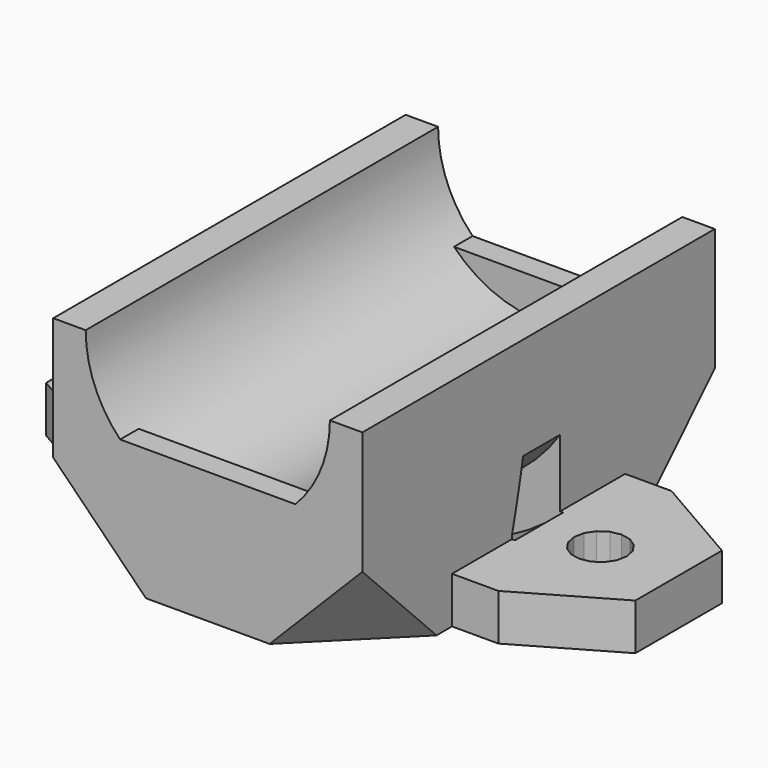
from build123d import *

# Parameters (mm, degrees)
CUBE006_W                    = 20
CUBE006_H                    = 10
CUBE006_DEPTH                = 20
CUBE006_ROLL_ANGLE           = 35
CUBE006_PLACEMENT_ANGLE      = -45
CUBE008_W                    = 20
CUBE008_H                    = 10
CUBE008_DEPTH                = 20
CUBE008_ROLL_ANGLE           = 35
CUBE008_PLACEMENT_ANGLE      = -45
CUBE007_W                    = 20
CUBE007_H                    = 10
CUBE007_DEPTH                = 20
CUBE007_ROLL_ANGLE           = 35
CUBE007_PLACEMENT_ANGLE      = 45
CUBE005_W                    = 20
CUBE005_H                    = 10
CUBE005_DEPTH                = 20
CUBE005_ROLL_ANGLE           = 35
CUBE005_PLACEMENT_ANGLE      = 45
CUBE003_W                    = 4.5
CUBE003_H                    = 20
CUBE003_DEPTH                = 1.5
CUBE004_W                    = 4.5
CUBE004_H                    = 20
CUBE004_DEPTH                = 1.5
CYLINDER005_R                = 12
CYLINDER005_DEPTH            = 5
CYLINDER004_R                = 15
CYLINDER004_DEPTH            = 3.9
CUBE002_W                    = 4
CUBE002_H                    = 20
CUBE002_DEPTH                = 28.5
CYLINDER003_R                = 7.9
CYLINDER003_DEPTH            = 32.5
CUBE001_W                    = 10
CUBE001_H                    = 20
CUBE001_DEPTH                = 28.5
MATRIX_UNION_PITCH_ANGLE     = -90
MATRIX_UNION_PLACEMENT_ANGLE = 90
PRISM003_DEPTH               = 10
CYLINDER001_R                = 12
CYLINDER001_DEPTH            = 5
CYLINDER_R                   = 15
CYLINDER_DEPTH               = 3.9
DIFFERENCE_PITCH_ANGLE       = -90
DIFFERENCE_PLACEMENT_ANGLE   = 90
PRISM002_DEPTH               = 10
PRISM_DEPTH                  = 3
PRISM_PLACEMENT_ANGLE        = 30
PRISM001_DEPTH               = 3
PRISM001_PLACEMENT_ANGLE     = 30
CUBE_W                       = 26
CUBE_H                       = 14
CUBE_DEPTH                   = 3


with BuildPart() as cube006:
    # cube006 → cube006 (new body)
    with BuildSketch(Plane.XY):
        with Locations((10, 5)):
            Rectangle(CUBE006_W, CUBE006_H)
    extrude(amount=CUBE006_DEPTH)


with BuildPart() as cube006_1:
    # cube006 roll: moved
    add(cube006.part.rotate(Axis((0, 0, 0), (1, 0, 0)), CUBE006_ROLL_ANGLE))


with BuildPart() as cube006_2:
    # cube006 placement: moved
    add(cube006_1.part.moved(Location((-15.80755, -5.915414, -13.927285))).rotate(Axis((-15.80755, -5.915414, -13.927285), (0, 0, 1)), CUBE006_PLACEMENT_ANGLE))


with BuildPart() as cube008:
    # cube008 → cube008 (new body)
    with BuildSketch(Plane.XY):
        with Locations((10, 5)):
            Rectangle(CUBE008_W, CUBE008_H)
    extrude(amount=CUBE008_DEPTH)


with BuildPart() as cube008_1:
    # cube008 roll: moved
    add(cube008.part.rotate(Axis((0, 0, 0), (1, 0, 0)), CUBE008_ROLL_ANGLE))


with BuildPart() as cube008_2:
    # cube008 placement: moved
    add(cube008_1.part.moved(Location((-15.80755, -5.915414, -13.927285))).rotate(Axis((-15.80755, -5.915414, -13.927285), (0, 0, 1)), CUBE008_PLACEMENT_ANGLE))


with BuildPart() as matrix_union001:
    # cube007 → cube007 (new body)
    with BuildSketch(Plane.XY):
        with Locations((10, 5)):
            Rectangle(CUBE007_W, CUBE007_H)
    extrude(amount=CUBE007_DEPTH)


with BuildPart() as matrix_union001_1:
    # cube007 roll: moved
    add(matrix_union001.part.rotate(Axis((0, 0, 0), (1, 0, 0)), CUBE007_ROLL_ANGLE))


with BuildPart() as matrix_union001_2:
    # cube007 placement: moved
    add(matrix_union001_1.part.moved(Location((1.665414, -20.05755, -13.927285))).rotate(Axis((1.665414, -20.05755, -13.927285), (0, 0, 1)), CUBE007_PLACEMENT_ANGLE))

    # Matrix_Union001: union cube008
    add(cube008_2.part)


with BuildPart() as mirrored_matrix_union001:
    # mirr_Matrix_Union001: instance of Matrix_Union001
    add(matrix_union001_2.part.mirror(Plane(origin=(0, 0, 0), x_dir=(1, 0, 0), z_dir=(0, 1, 0))))


with BuildPart() as union005:
    # cube005 → cube005 (new body)
    with BuildSketch(Plane.XY):
        with Locations((10, 5)):
            Rectangle(CUBE005_W, CUBE005_H)
    extrude(amount=CUBE005_DEPTH)


with BuildPart() as union005_1:
    # cube005 roll: moved
    add(union005.part.rotate(Axis((0, 0, 0), (1, 0, 0)), CUBE005_ROLL_ANGLE))


with BuildPart() as union005_2:
    # cube005 placement: moved
    add(union005_1.part.moved(Location((1.665414, -20.05755, -13.927285))).rotate(Axis((1.665414, -20.05755, -13.927285), (0, 0, 1)), CUBE005_PLACEMENT_ANGLE))

    # union005: union cube006, mirrored Matrix_Union001
    add(cube006_2.part)
    add(mirrored_matrix_union001.part)


with BuildPart() as cube003:
    # cube003 → cube003 (new body)
    with BuildSketch(Plane(origin=(-10, -10, 0), x_dir=(1, 0, 0), z_dir=(0, 0, 1))):
        with Locations((2.25, 10)):
            Rectangle(CUBE003_W, CUBE003_H)
    extrude(amount=CUBE003_DEPTH)


with BuildPart() as cube004:
    # cube004 → cube004 (new body)
    with BuildSketch(Plane(origin=(-10, -10, 27), x_dir=(1, 0, 0), z_dir=(0, 0, 1))):
        with Locations((2.25, 10)):
            Rectangle(CUBE004_W, CUBE004_H)
    extrude(amount=CUBE004_DEPTH)


with BuildPart() as cylinder006:
    # cylinder006 → cylinder006 (revolve)
    with BuildSketch(Plane(origin=(0, 0, 3), x_dir=(1, 0, 0), z_dir=(0, -1, 0))):
        Polygon((0, 0), (12, 0), (15, 1), (0, 1), align=None)
    revolve(axis=Axis((0, 0, 3), (0, 0, 1)))


with BuildPart() as union004:
    # cylinder005 → cylinder005 (new body)
    with BuildSketch(Plane.XY):
        Circle(CYLINDER005_R)
    extrude(amount=CYLINDER005_DEPTH)

    # union004: union cylinder006
    add(cylinder006.part)


with BuildPart() as difference003:
    # cylinder004 → cylinder004 (new body)
    with BuildSketch(Plane.XY):
        Circle(CYLINDER004_R)
    extrude(amount=CYLINDER004_DEPTH)

    # difference003: cut union004
    add(union004.part, mode=Mode.SUBTRACT)


with BuildPart() as difference003_1:
    # difference003 placement: moved
    add(difference003.part.moved(Location((0, 0, 12.5))))


with BuildPart() as cube002:
    # cube002 → cube002 (new body)
    with BuildSketch(Plane(origin=(-14, -10, 0), x_dir=(1, 0, 0), z_dir=(0, 0, 1))):
        with Locations((2, 10)):
            Rectangle(CUBE002_W, CUBE002_H)
    extrude(amount=CUBE002_DEPTH)


with BuildPart() as cylinder003:
    # cylinder003 → cylinder003 (new body)
    with BuildSketch(Plane.XY.offset(-2)):
        Circle(CYLINDER003_R)
    extrude(amount=CYLINDER003_DEPTH)


with BuildPart() as difference005:
    # cube001 → cube001 (new body)
    with BuildSketch(Plane(origin=(-10, -10, 0), x_dir=(1, 0, 0), z_dir=(0, 0, 1))):
        with Locations((5, 10)):
            Rectangle(CUBE001_W, CUBE001_H)
    extrude(amount=CUBE001_DEPTH)

    # difference002: cut cylinder003
    add(cylinder003.part, mode=Mode.SUBTRACT)

    # union003: union cube002
    add(cube002.part)

    # difference004: cut difference003
    add(difference003_1.part, mode=Mode.SUBTRACT)

    # Matrix_Union: union cube003, cube004
    add(cube003.part)
    add(cube004.part)


with BuildPart() as difference005_1:
    # Matrix_Union pitch: moved
    add(difference005.part.rotate(Axis((0, 0, 0), (0, 1, 0)), MATRIX_UNION_PITCH_ANGLE))


with BuildPart() as difference005_2:
    # Matrix_Union placement: moved
    add(difference005_1.part.moved(Location((0, 14.25, 14))).rotate(Axis((0, 14.25, 14), (0, 0, 1)), MATRIX_UNION_PLACEMENT_ANGLE))

    # difference005: cut union005
    add(union005_2.part, mode=Mode.SUBTRACT)


with BuildPart() as prism003:
    # prism003 → prism003 (new body)
    with BuildSketch(Plane(origin=(14, 0, -0.1), x_dir=(1, 0, 0), z_dir=(0, 0, 1))):
        Polygon((1.7, 0), (1.570595, 0.650562), (1.202082, 1.202082), (0.650562, 1.570595), (0, 1.7), (-0.650562, 1.570595), (-1.202082, 1.202082), (-1.570595, 0.650562), (-1.7, 0), (-1.570595, -0.650562), (-1.202082, -1.202082), (-0.650562, -1.570595), (0, -1.7), (0.650562, -1.570595), (1.202082, -1.202082), (1.570595, -0.650562), align=None)
    extrude(amount=PRISM003_DEPTH)


with BuildPart() as cylinder002:
    # cylinder002 → cylinder002 (revolve)
    with BuildSketch(Plane(origin=(0, 0, 3), x_dir=(1, 0, 0), z_dir=(0, -1, 0))):
        Polygon((0, 0), (12, 0), (15, 1), (0, 1), align=None)
    revolve(axis=Axis((0, 0, 3), (0, 0, 1)))


with BuildPart() as union001:
    # cylinder001 → cylinder001 (new body)
    with BuildSketch(Plane.XY):
        Circle(CYLINDER001_R)
    extrude(amount=CYLINDER001_DEPTH)

    # union001: union cylinder002
    add(cylinder002.part)


with BuildPart() as difference:
    # cylinder → cylinder (new body)
    with BuildSketch(Plane.XY):
        Circle(CYLINDER_R)
    extrude(amount=CYLINDER_DEPTH)

    # difference: cut union001
    add(union001.part, mode=Mode.SUBTRACT)


with BuildPart() as difference_1:
    # difference pitch: moved
    add(difference.part.rotate(Axis((0, 0, 0), (0, 1, 0)), DIFFERENCE_PITCH_ANGLE))


with BuildPart() as difference_2:
    # difference placement: moved
    add(difference_1.part.moved(Location((0, 1.75, 14))).rotate(Axis((0, 1.75, 14), (0, 0, 1)), DIFFERENCE_PLACEMENT_ANGLE))


with BuildPart() as union002:
    # prism002 → prism002 (new body)
    with BuildSketch(Plane(origin=(-14, 0, -0.1), x_dir=(1, 0, 0), z_dir=(0, 0, 1))):
        Polygon((1.7, 0), (1.570595, 0.650562), (1.202082, 1.202082), (0.650562, 1.570595), (0, 1.7), (-0.650562, 1.570595), (-1.202082, 1.202082), (-1.570595, 0.650562), (-1.7, 0), (-1.570595, -0.650562), (-1.202082, -1.202082), (-0.650562, -1.570595), (0, -1.7), (0.650562, -1.570595), (1.202082, -1.202082), (1.570595, -0.650562), align=None)
    extrude(amount=PRISM002_DEPTH)

    # union002: union prism003, difference
    add(prism003.part)
    add(difference_2.part)


with BuildPart() as prism:
    # prism → prism (new body)
    with BuildSketch(Plane.XY):
        Polygon((7, 0), (3.5, 6.062178), (-3.5, 6.062178), (-7, 0), (-3.5, -6.062178), (3.5, -6.062178), align=None)
    extrude(amount=PRISM_DEPTH)


with BuildPart() as prism_1:
    # prism placement: moved
    add(prism.part.moved(Location((-13, 0, 0))).rotate(Axis((-13, 0, 0), (0, 0, 1)), PRISM_PLACEMENT_ANGLE))


with BuildPart() as prism001:
    # prism001 → prism001 (new body)
    with BuildSketch(Plane.XY):
        Polygon((7, 0), (3.5, 6.062178), (-3.5, 6.062178), (-7, 0), (-3.5, -6.062178), (3.5, -6.062178), align=None)
    extrude(amount=PRISM001_DEPTH)


with BuildPart() as prism001_1:
    # prism001 placement: moved
    add(prism001.part.moved(Location((13, 0, 0))).rotate(Axis((13, 0, 0), (0, 0, 1)), PRISM001_PLACEMENT_ANGLE))


with BuildPart() as group:
    # cube → cube (new body)
    with BuildSketch(Plane(origin=(-13, -7, 0), x_dir=(1, 0, 0), z_dir=(0, 0, 1))):
        with Locations((13, 7)):
            Rectangle(CUBE_W, CUBE_H)
    extrude(amount=CUBE_DEPTH)

    # union: union prism, prism001
    add(prism_1.part)
    add(prism001_1.part)

    # difference001: cut union002
    add(union002.part, mode=Mode.SUBTRACT)

    # Group: union difference005
    add(difference005_2.part)


solid = group.part
